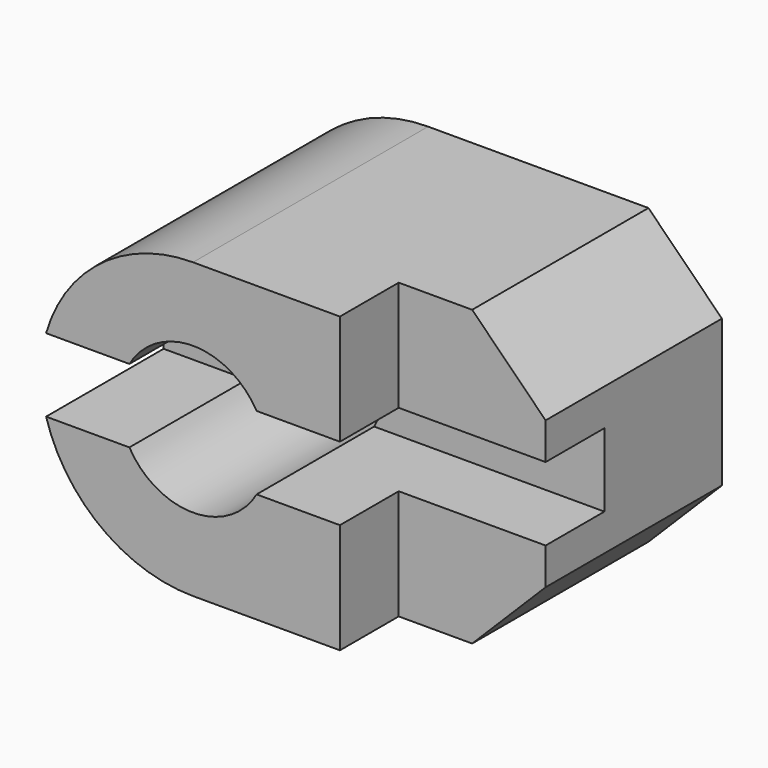
from build123d import *

# Parameters (mm, degrees)
F0_W     = 5
F0_H     = 15
F1_DEPTH = 10
F3_DEPTH = 20.001
F4_W     = 10
F4_H     = 5
F5_DEPTH = 30.001


with BuildPart() as f1:
    # F0 (on Top) → F1 (new body, symmetric)
    with BuildSketch(Plane.XY):
        Polygon((0, 20), (0, 0), (20, 0), (20, 5), (25, 5), (25, 20), align=None)
        with Locations((27.5, 12.5)):
            Rectangle(F0_W, F0_H)
    extrude(amount=F1_DEPTH, both=True)

    # F2 (on Front) → F3 (cut, through all)
    with BuildSketch(Plane.XZ):
        with BuildLine():
            Line((0, 10), (0, 2.5))
            ThreePointArc((0, 2.5), (3.75, 7.916667), (10, 10))
            Line((10, 10), (0, 10))
        make_face()
        with BuildLine():
            ThreePointArc((10, -10), (3.75, -7.916667), (0, -2.5))
            Line((0, -2.5), (0, -10))
            Line((0, -10), (10, -10))
        make_face()
        Polygon((25, 10), (30, 5), (30, 10), align=None)
        Polygon((30, -10), (30, -5), (25, -10), align=None)
        with BuildLine():
            ThreePointArc((14.330127, -2.5), (14.829629, -1.294095), (15, 0))
            ThreePointArc((15, 0), (14.829629, 1.294095), (14.330127, 2.5))
            ThreePointArc((14.330127, 2.5), (10, 5), (5.669873, 2.5))
            ThreePointArc((5.669873, 2.5), (5, 0), (5.669873, -2.5))
            ThreePointArc((5.669873, -2.5), (10, -5), (14.330127, -2.5))
        make_face()
    extrude(amount=-F3_DEPTH, mode=Mode.SUBTRACT)

    # F4 (on Right) → F5 (cut, through all)
    with BuildSketch(Plane.YZ):
        with Locations((5, 0)):
            Rectangle(F4_W, F4_H)
    extrude(amount=F5_DEPTH, mode=Mode.SUBTRACT)


solid = f1.part
